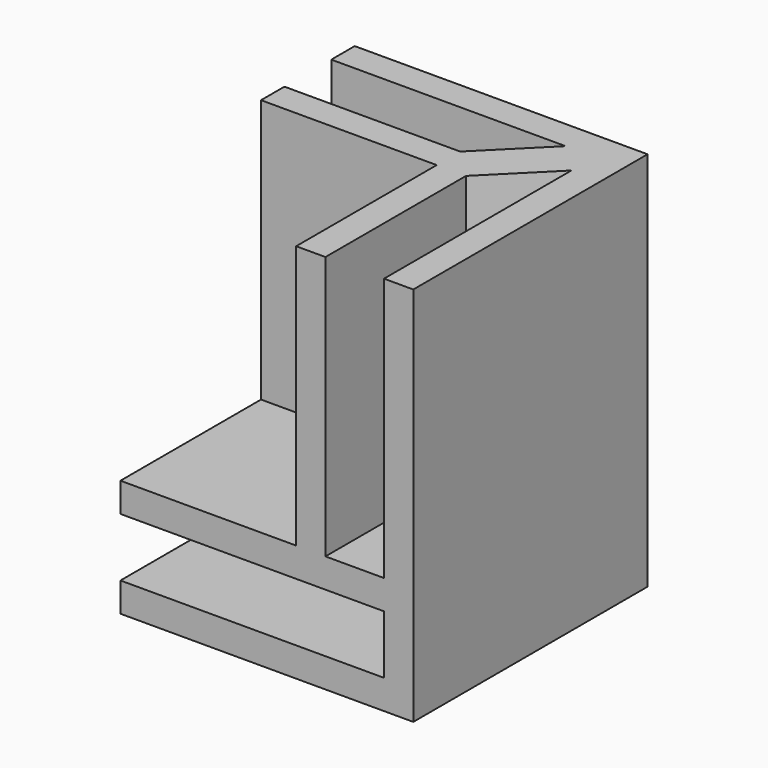
from build123d import *

# Parameters (mm, degrees)
F0_W     = 20
F0_H     = 20
F1_DEPTH = 26
F2_W     = 12
F2_H     = 18
F3_DEPTH = 12
F4_W     = 18
F4_H     = 4
F5_DEPTH = 18
F6_W     = 4
F6_H     = 18
F7_DEPTH = 12
F9_DEPTH = 18


with BuildPart() as f1:
    # F0 (on Top) → F1 (new body)
    with BuildSketch(Plane.XY):
        with Locations((10, 10)):
            Rectangle(F0_W, F0_H)
    extrude(amount=F1_DEPTH)

    # F2 (on face) → F3 (cut)
    with BuildSketch(Plane(origin=(0, 0, 0), x_dir=(0, -1, 0), z_dir=(-1, 0, 0))):
        with Locations((-6, 17)):
            Rectangle(F2_W, F2_H)
    extrude(amount=-F3_DEPTH, mode=Mode.SUBTRACT)

    # F4 (on face) → F5 (cut)
    with BuildSketch(Plane(origin=(0, 0, 0), x_dir=(0, -1, 0), z_dir=(-1, 0, 0))):
        with Locations((-9, 4)):
            Rectangle(F4_W, F4_H)
    extrude(amount=-F5_DEPTH, mode=Mode.SUBTRACT)

    # F6 (on face) → F7 (cut)
    with BuildSketch(Plane(origin=(0, 0, 0), x_dir=(0, -1, 0), z_dir=(-1, 0, 0))):
        with Locations((-16, 17)):
            Rectangle(F6_W, F6_H)
    extrude(amount=-F7_DEPTH, mode=Mode.SUBTRACT)

    # F8 (on face) → F9 (cut)
    with BuildSketch(Plane.XY.offset(26)):
        Polygon((12, 18), (12, 14), (16, 18), align=None)
        Polygon((18, 16), (14, 12), (14, 0), (18, 0), (18, 12), align=None)
    extrude(amount=-F9_DEPTH, mode=Mode.SUBTRACT)


solid = f1.part
